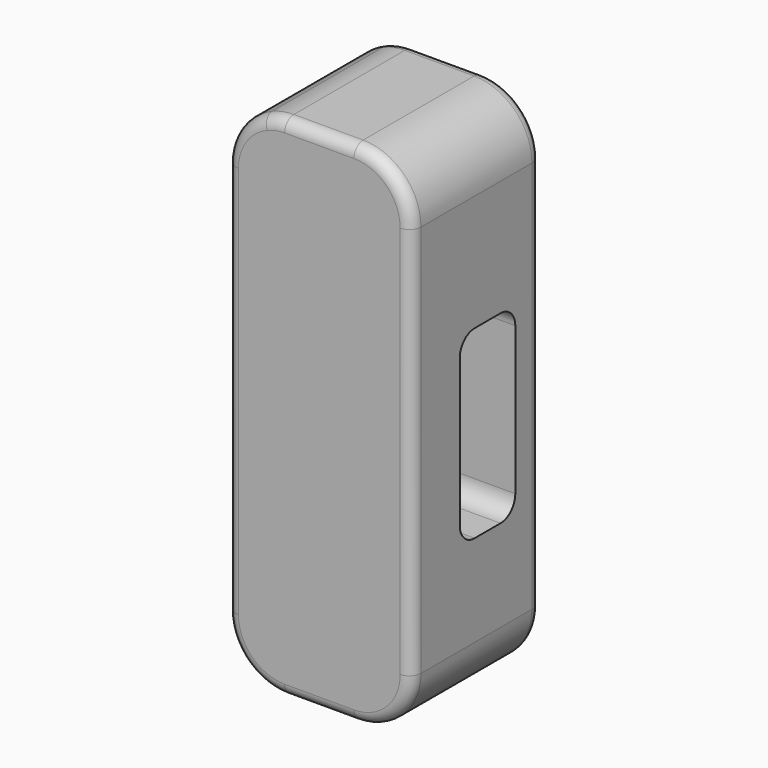
from build123d import *

# Parameters (mm, degrees)
F1_DEPTH = 44.45
F3_DEPTH = 50.801
F4_R     = 3.175


with BuildPart() as f1:
    # F0 (on Front) → F1 (new body)
    with BuildSketch(Plane.XZ):
        with BuildLine():
            ThreePointArc((25.4, 53.975), (20.75032, 65.20032), (9.525, 69.85))
            Line((9.525, 69.85), (-9.525, 69.85))
            ThreePointArc((-9.525, 69.85), (-12.542667, 69.560548), (-15.45029, 68.702748))
            ThreePointArc((-15.45029, 68.702748), (-22.679459, 62.861834), (-25.4, 53.975))
            Line((-25.4, 53.975), (-25.4, -53.975))
            ThreePointArc((-25.4, -53.975), (-20.75032, -65.20032), (-9.525, -69.85))
            Line((-9.525, -69.85), (9.525, -69.85))
            ThreePointArc((9.525, -69.85), (20.75032, -65.20032), (25.4, -53.975))
            Line((25.4, -53.975), (25.4, 53.975))
        make_face()
    extrude(amount=F1_DEPTH)

    # F2 (on face) → F3 (cut, through all)
    with BuildSketch(Plane.YZ.offset(25.4)):
        with BuildLine():
            Line((-13.961844, 22.020357), (-22.851844, 22.020357))
            ThreePointArc((-22.851844, 22.020357), (-26.443946, 20.53246), (-27.931844, 16.940357))
            Line((-27.931844, 16.940357), (-27.931844, -23.699643))
            ThreePointArc((-27.931844, -23.699643), (-26.443946, -27.291745), (-22.851844, -28.779643))
            Line((-22.851844, -28.779643), (-13.961844, -28.779643))
            ThreePointArc((-13.961844, -28.779643), (-10.369742, -27.291745), (-8.881844, -23.699643))
            Line((-8.881844, -23.699643), (-8.881844, 16.940357))
            ThreePointArc((-8.881844, 16.940357), (-10.369742, 20.53246), (-13.961844, 22.020357))
        make_face()
    extrude(amount=-F3_DEPTH, mode=Mode.SUBTRACT)

    # F4
    f4_edges = [f1.edges().sort_by_distance(p)[0] for p in [
        (0, -44.45, 69.85),
        (0, 0, 69.85),
    ]]
    fillet(f4_edges, radius=F4_R)


solid = f1.part
